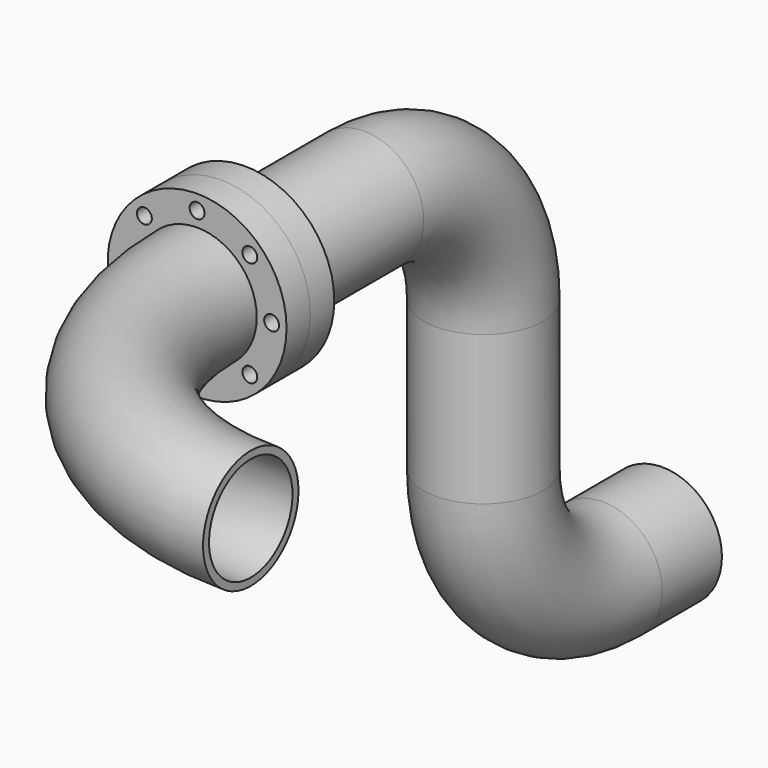
from build123d import *

# Parameters (mm, degrees)
F0_R        = 60
F0_R_2      = 5
F0_R_3      = 35
F1_DEPTH    = 20
F2_R        = 40
F2_R_2      = 35
F1_FACE_R   = 60
F1_FACE_R_2 = 5
F1_FACE_R_3 = 35
F5_DEPTH    = 20
F6_R        = 40
F6_R_2      = 35
F7_ANGLE    = -90


with BuildPart() as f1:
    # F0 (on Front) → F1 (new body)
    with BuildSketch(Plane.XZ):
        Circle(F0_R)
        with Locations((-35.355339, -35.355339)):
            Circle(F0_R_2, mode=Mode.SUBTRACT)
        with Locations((0, -50)):
            Circle(F0_R_2, mode=Mode.SUBTRACT)
        with Locations((35.355339, -35.355339)):
            Circle(F0_R_2, mode=Mode.SUBTRACT)
        with Locations((-50, 0)):
            Circle(F0_R_2, mode=Mode.SUBTRACT)
        with Locations((-35.355339, 35.355339)):
            Circle(F0_R_2, mode=Mode.SUBTRACT)
        Circle(F0_R_3, mode=Mode.SUBTRACT)
        with Locations((50, 0)):
            Circle(F0_R_2, mode=Mode.SUBTRACT)
        with Locations((0, 50)):
            Circle(F0_R_2, mode=Mode.SUBTRACT)
        with Locations((35.355339, 35.355339)):
            Circle(F0_R_2, mode=Mode.SUBTRACT)
    extrude(amount=F1_DEPTH)


with BuildPart() as f4:
    # F4: sweep along a path in F3
    with BuildLine(Plane.YZ) as f4_path:
        Line((0, 0), (100, 0))
        ThreePointArc((100, 0), (170.710678, -29.289322), (200, -100))
        Line((200, -100), (200, -200))
        ThreePointArc((200, -200), (229.289322, -270.710678), (300, -300))
        Line((300, -300), (350, -300))
    # F2 (on Front) → F4 (sweep)
    with BuildSketch(Plane.XZ):
        Circle(F2_R)
        Circle(F2_R_2, mode=Mode.SUBTRACT)
    sweep(path=f4_path.line)


with BuildPart() as f5:
    # F1_face (on face) → F5 (new body)
    with BuildSketch(Plane.XZ.offset(20)):
        Circle(F1_FACE_R)
        with Locations((-35.355339, -35.355339)):
            Circle(F1_FACE_R_2, mode=Mode.SUBTRACT)
        with Locations((0, -50)):
            Circle(F1_FACE_R_2, mode=Mode.SUBTRACT)
        with Locations((35.355339, -35.355339)):
            Circle(F1_FACE_R_2, mode=Mode.SUBTRACT)
        with Locations((-50, 0)):
            Circle(F1_FACE_R_2, mode=Mode.SUBTRACT)
        with Locations((-35.355339, 35.355339)):
            Circle(F1_FACE_R_2, mode=Mode.SUBTRACT)
        Circle(F1_FACE_R_3, mode=Mode.SUBTRACT)
        with Locations((50, 0)):
            Circle(F1_FACE_R_2, mode=Mode.SUBTRACT)
        with Locations((0, 50)):
            Circle(F1_FACE_R_2, mode=Mode.SUBTRACT)
        with Locations((35.355339, 35.355339)):
            Circle(F1_FACE_R_2, mode=Mode.SUBTRACT)
    extrude(amount=F5_DEPTH)

    # F6 (on face) → F7 (revolve)
    with BuildSketch(Plane.XZ.offset(40)):
        Circle(F6_R)
        Circle(F6_R_2, mode=Mode.SUBTRACT)
    revolve(axis=Axis((180, -40, 1.075119), (0, 0, -1)), revolution_arc=F7_ANGLE)


solid = Compound([f1.part, f4.part, f5.part])
